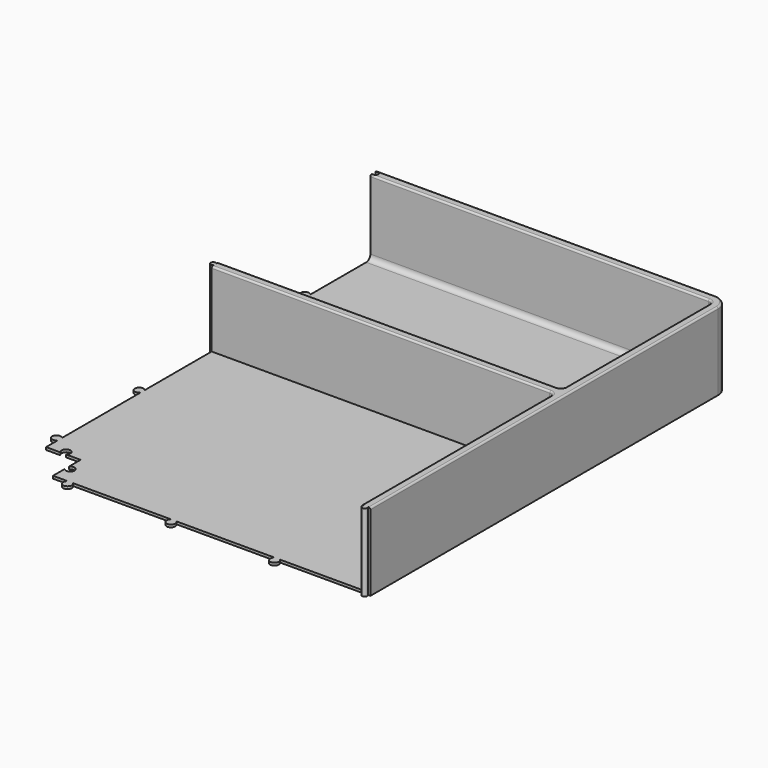
from build123d import *

# Parameters (mm, degrees)
PAD012_DEPTH           = 1.5
PAD013_DEPTH           = 43.5
FILLET005_R            = 3
FILLET006_R            = 8
SKETCH020_R            = 1.5
PAD014_DEPTH           = 45
SKETCH021_R            = 1.55
POCKET005_DEPTH        = 45.001
FILLET007_R            = 1
SKETCH022_R            = 2.5
PAD015_DEPTH           = 1.5
LINEARPATTERN005_COUNT = 3
LINEARPATTERN005_PITCH = 60
SKETCH023_R            = 2.5
PAD016_DEPTH           = 1.5
LINEARPATTERN006_COUNT = 4
LINEARPATTERN006_PITCH = 60
SKETCH024_R            = 2.5
POCKET006_DEPTH        = 45.001


with BuildPart() as part:
    # Sketch018 (on XY_Plane003 of Origin006) → Pad012 (new body)
    with BuildSketch(Plane.XY):
        Polygon((200, 240), (200, 260), (180, 260), (180, 500), (384, 500), (384, 240), align=None)
    extrude(amount=PAD012_DEPTH)

    # Sketch019 (on Face4 of Pad012) → Pad013 (join)
    with BuildSketch(Plane.XY.offset(1.5)):
        Polygon((180, 495), (180, 500), (384, 500), (384, 240), (379, 240), (379, 380), (180, 380), (180, 385), (379, 385), (379, 495), align=None)
    extrude(amount=PAD013_DEPTH)

    # Fillet005
    fillet005_edges = [part.edges().sort_by_distance(p)[0] for p in [
        (379, 380, 23.25),
        (279.5, 495, 1.5),
        (379, 495, 23.25),
        (379, 440, 1.5),
        (379, 385, 23.25),
        (279.5, 385, 1.5),
    ]]
    fillet(fillet005_edges, radius=FILLET005_R)

    # Fillet006
    fillet006_edges = [part.edges().sort_by_distance(p)[0] for p in [
        (384, 500, 23.25),
    ]]
    fillet(fillet006_edges, radius=FILLET006_R)

    # Sketch020 (on XY_Plane003 of Origin006) → Pad014 (join)
    with BuildSketch(Plane.XY):
        with Locations((381.5, 239)):
            Circle(SKETCH020_R)
        with Locations((179, 382.5)):
            Circle(SKETCH020_R)
    extrude(amount=PAD014_DEPTH)

    # Sketch021 (on XY_Plane003 of Origin006) → Pocket005 (cut, through all)
    with BuildSketch(Plane.XY):
        with Locations((181, 497.5)):
            Circle(SKETCH021_R)
    extrude(amount=POCKET005_DEPTH, mode=Mode.SUBTRACT)

    # Fillet007
    fillet007_edges = [part.edges().sort_by_distance(p)[0] for p in [
        (278, 380, 45),
        (278, 385, 45),
        (384, 366, 45),
    ]]
    fillet(fillet007_edges, radius=FILLET007_R)

    # Sketch022 (on XY_Plane003 of Origin006) → Pad015 (join)
    with BuildSketch(Plane.XY):
        with Locations((330, 238)):
            Circle(SKETCH022_R)
    pad015 = extrude(amount=PAD015_DEPTH)

    # LinearPattern005: Pad015 ×3
    with Locations(*[(-i * LINEARPATTERN005_PITCH, 0, 0) for i in range(1, LINEARPATTERN005_COUNT)]):
        add(pad015)

    # Sketch023 (on XY_Plane003 of Origin006) → Pad016 (join)
    with BuildSketch(Plane.XY):
        with Locations((178, 270)):
            Circle(SKETCH023_R)
    pad016 = extrude(amount=PAD016_DEPTH)

    # LinearPattern006: Pad016 ×4
    with Locations(*[(0, i * LINEARPATTERN006_PITCH, 0) for i in range(1, LINEARPATTERN006_COUNT)]):
        add(pad016)

    # Sketch024 (on XY_Plane003 of Origin006) → Pocket006 (cut, through all)
    with BuildSketch(Plane.XY):
        with Locations((190, 262)):
            Circle(SKETCH024_R)
        with Locations((202, 250)):
            Circle(SKETCH024_R)
    extrude(amount=POCKET006_DEPTH, mode=Mode.SUBTRACT)


solid = part.part
